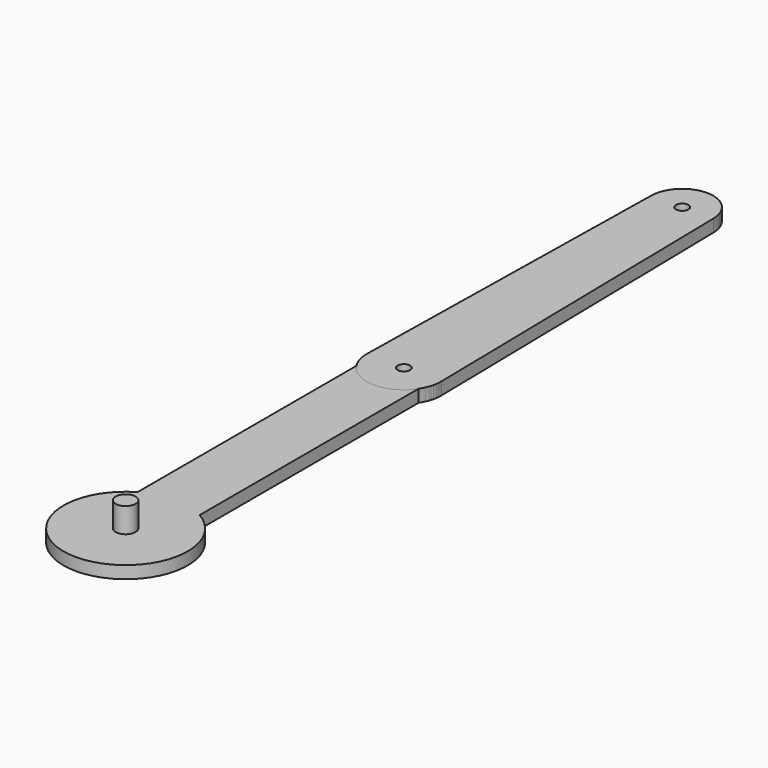
from build123d import *

# Parameters (mm, degrees)
F0_R     = 4
F0_R_2   = 2.5
F1_DEPTH = 5
F2_R     = 2.5
F3_DEPTH = 5
F4_R     = 4
F5_DEPTH = 15


with BuildPart() as f1:
    # F0 (on Top) → F1 (new body)
    with BuildSketch(Plane.XY):
        with BuildLine():
            Line((-12.5, 131.708438), (-12.5, 21.650635))
            ThreePointArc((-12.5, 21.650635), (0, -25), (12.5, 21.650635))
            Line((12.5, 21.650635), (12.5, 131.708438))
            ThreePointArc((12.5, 131.708438), (0, 155), (-12.5, 131.708438))
        make_face()
        Circle(F0_R, mode=Mode.SUBTRACT)
        with Locations((0, 140)):
            Circle(F0_R_2, mode=Mode.SUBTRACT)
    extrude(amount=F1_DEPTH)


with BuildPart() as f3:
    # F2 (on Top) → F3 (new body)
    with BuildSketch(Plane.XY):
        with BuildLine():
            Line((-12.498007, 280.223214), (-14.997608, 140.267857))
            ThreePointArc((-14.997608, 140.267857), (0, 125), (14.997608, 140.267857))
            Line((14.997608, 140.267857), (12.498007, 280.223214))
            ThreePointArc((12.498007, 280.223214), (0, 292.5), (-12.498007, 280.223214))
        make_face()
        with Locations((0, 140)):
            Circle(F2_R, mode=Mode.SUBTRACT)
        with Locations((0, 280)):
            Circle(F2_R, mode=Mode.SUBTRACT)
    extrude(amount=F3_DEPTH)


with BuildPart() as f5:
    # F4 (on Top) → F5 (new body)
    with BuildSketch(Plane.XY):
        Circle(F4_R)
    extrude(amount=F5_DEPTH)


solid = Compound([f1.part, f3.part, f5.part])
